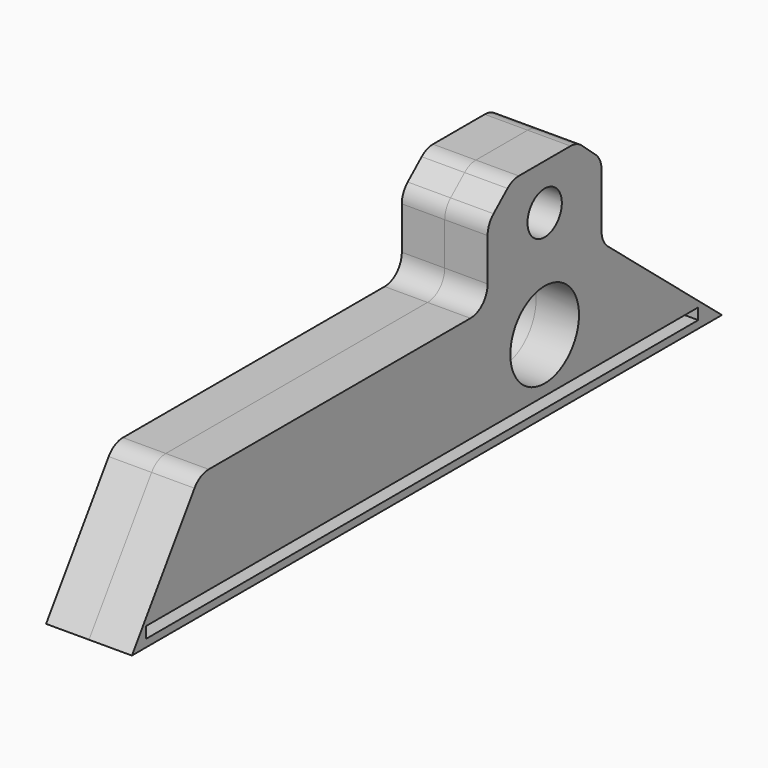
from build123d import *

# Parameters (mm, degrees)
F0_R     = 12.7
F0_R_2   = 6.35
F1_DEPTH = 12.7
F2_W     = 204.393248
F2_H     = 3.327842
F3_DEPTH = 10.16


with BuildPart() as f1:
    # F0 (on Right) → F1 (new body)
    with BuildSketch(Plane.YZ):
        with BuildLine():
            Line((-87.375535, 34.189256), (-110.535988, 0))
            Line((-110.535988, 0), (107.75274, 0))
            Line((107.75274, 0), (65.513664, 35.073517))
            ThreePointArc((65.513664, 35.073517), (63.822126, 37.260422), (63.220247, 39.958865))
            Line((63.220247, 39.958865), (63.220247, 55.964406))
            ThreePointArc((63.220247, 55.964406), (62.652536, 58.588837), (61.050913, 60.744001))
            Line((61.050913, 60.744001), (55.924149, 65.228332))
            ThreePointArc((55.924149, 65.228332), (53.976426, 66.393184), (51.743483, 66.798736))
            Line((51.743483, 66.798736), (32.59323, 66.798736))
            ThreePointArc((32.59323, 66.798736), (30.368941, 66.396428), (28.426495, 65.240481))
            Line((28.426495, 65.240481), (23.25669, 60.744997))
            ThreePointArc((23.25669, 60.744997), (21.644962, 58.586096), (21.073425, 55.953253))
            Line((21.073425, 55.953253), (21.073425, 43.327871))
            ThreePointArc((21.073425, 43.327871), (19.213554, 38.837743), (14.723425, 36.977871))
            Line((14.723425, 36.977871), (-82.11825, 36.977871))
            ThreePointArc((-82.11825, 36.977871), (-85.093793, 36.237564), (-87.375535, 34.189256))
        make_face()
        with Locations((42.173627, 21.532319)):
            Circle(F0_R, mode=Mode.SUBTRACT)
        with Locations((42.173627, 53.282319)):
            Circle(F0_R_2, mode=Mode.SUBTRACT)
    extrude(amount=F1_DEPTH)

    # F2 (on face) → F3 (cut)
    with BuildSketch(Plane.YZ.offset(12.7)):
        with Locations((-3.201375, 3.899425)):
            Rectangle(F2_W, F2_H)
    extrude(amount=-F3_DEPTH, mode=Mode.SUBTRACT)


with BuildPart() as f4_1:
    # F4: instance of F1
    add(f1.part.mirror(Plane(origin=(0, -2.3091, 21.867305), x_dir=(0, 1, 0), z_dir=(-1, 0, 0))))


solid = Compound([f1.part, f4_1.part])
